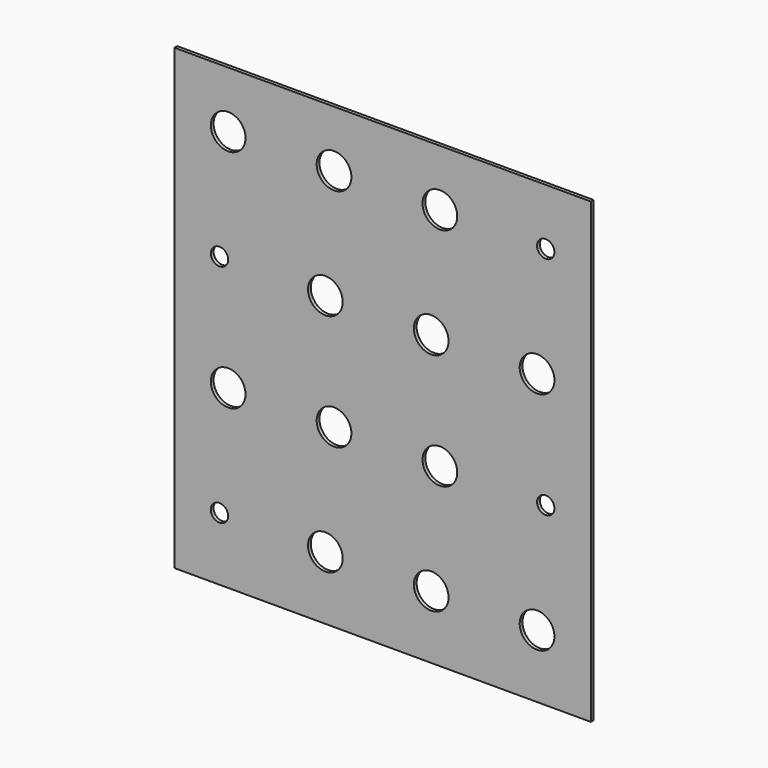
from build123d import *

# Parameters (mm, degrees)
F0_W     = 3048
F0_H     = 3352.8
F0_R     = 63.5
F0_R_2   = 127
F1_DEPTH = 25.4


with BuildPart() as f1:
    # F0 (on Front) → F1 (new body)
    with BuildSketch(Plane.XZ):
        with Locations((1524, 1676.4)):
            Rectangle(F0_W, F0_H)
        with Locations((330.2, 463.55)):
            Circle(F0_R, mode=Mode.SUBTRACT)
        with Locations((1104.9, 463.55)):
            Circle(F0_R_2, mode=Mode.SUBTRACT)
        with Locations((393.7, 1289.05)):
            Circle(F0_R_2, mode=Mode.SUBTRACT)
        with Locations((1168.4, 1289.05)):
            Circle(F0_R_2, mode=Mode.SUBTRACT)
        with Locations((1879.6, 463.55)):
            Circle(F0_R_2, mode=Mode.SUBTRACT)
        with Locations((2654.3, 463.55)):
            Circle(F0_R_2, mode=Mode.SUBTRACT)
        with Locations((1943.1, 1289.05)):
            Circle(F0_R_2, mode=Mode.SUBTRACT)
        with Locations((2717.8, 1289.05)):
            Circle(F0_R, mode=Mode.SUBTRACT)
        with Locations((330.2, 2114.55)):
            Circle(F0_R, mode=Mode.SUBTRACT)
        with Locations((1104.9, 2114.55)):
            Circle(F0_R_2, mode=Mode.SUBTRACT)
        with Locations((393.7, 2940.05)):
            Circle(F0_R_2, mode=Mode.SUBTRACT)
        with Locations((1168.4, 2940.05)):
            Circle(F0_R_2, mode=Mode.SUBTRACT)
        with Locations((1879.6, 2114.55)):
            Circle(F0_R_2, mode=Mode.SUBTRACT)
        with Locations((2654.3, 2114.55)):
            Circle(F0_R_2, mode=Mode.SUBTRACT)
        with Locations((1943.1, 2940.05)):
            Circle(F0_R_2, mode=Mode.SUBTRACT)
        with Locations((2717.8, 2940.05)):
            Circle(F0_R, mode=Mode.SUBTRACT)
    extrude(amount=F1_DEPTH)


solid = f1.part
